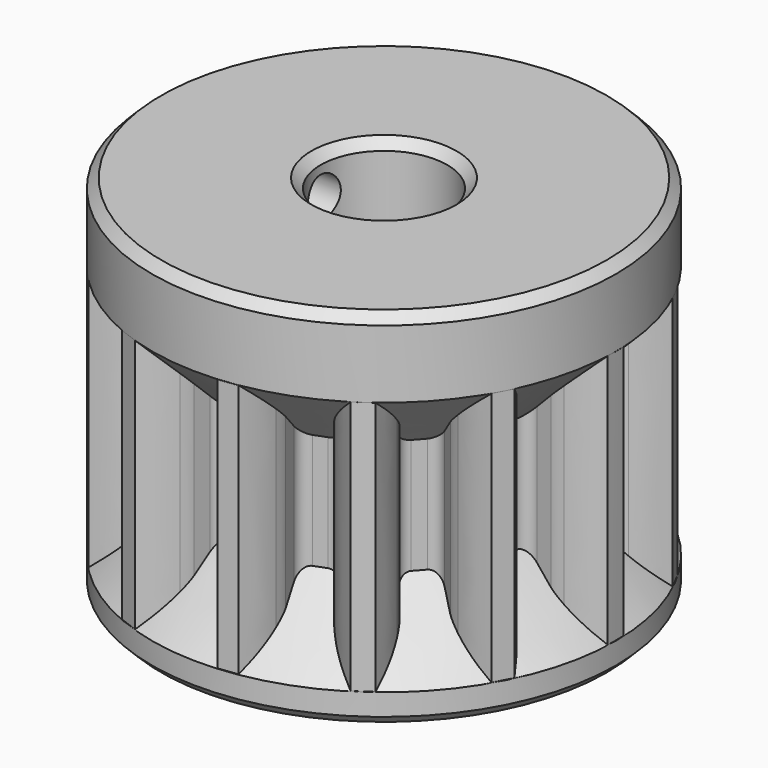
from build123d import *

# Parameters (mm, degrees)
PAD002_DEPTH         = 20
SKETCH008_R          = 4.1
POCKET004_DEPTH      = 5.251
POCKET004_DEPTH_BACK = 18.251
SKETCH009_R          = 1.35
POCKET005_DEPTH      = 15.021
CHAMFER002_SIZE      = 0.6
CHAMFER003_SIZE      = 0.4


with BuildPart() as part:
    # InvoluteGear001 → Pad002 (new body)
    with BuildSketch(Plane.XY):
        with BuildLine():
            Line((11.121727, -1.518946), (12.135878, -1.655838))
            add(Edge.make_bspline(
                [(12.135878, -1.655838), (12.219946, -1.661179), (12.472459, -1.665228), (12.896247, -1.569363)],
                knots=[0, 0, 0, 0, 1, 1, 1, 1], degree=3))
            add(Edge.make_bspline(
                [(12.896247, -1.569363), (13.401185, -1.452446), (14.121598, -1.194594), (14.989263, -0.632949)],
                knots=[0, 0, 0, 0, 1, 1, 1, 1], degree=3))
            ThreePointArc((14.989263, -0.632949), (15.002623, 0), (14.989263, 0.632949))
            add(Edge.make_bspline(
                [(14.989263, 0.632949), (14.121598, 1.194594), (13.401185, 1.452446), (12.896247, 1.569363)],
                knots=[0, 0, 0, 0, 1, 1, 1, 1], degree=3))
            add(Edge.make_bspline(
                [(12.896247, 1.569363), (12.472459, 1.665228), (12.219946, 1.661179), (12.135878, 1.655838)],
                knots=[0, 0, 0, 0, 1, 1, 1, 1], degree=3))
            Line((12.135878, 1.655838), (11.121727, 1.518946))
            ThreePointArc((11.121727, 1.518946), (10.587353, 1.649583), (10.285868, 2.109722))
            ThreePointArc((10.285868, 2.109722), (10.194889, 2.512814), (10.08812, 2.912015))
            ThreePointArc((10.08812, 2.912015), (10.141235, 3.459555), (10.553689, 3.823564))
            Line((10.553689, 3.823564), (11.515293, 4.173652))
            add(Edge.make_bspline(
                [(11.515293, 4.173652), (11.592213, 4.207991), (11.817684, 4.321754), (12.148378, 4.603583)],
                knots=[0, 0, 0, 0, 1, 1, 1, 1], degree=3))
            add(Edge.make_bspline(
                [(12.148378, 4.603583), (12.541145, 4.941764), (13.05921, 5.504873), (13.566479, 6.405409)],
                knots=[0, 0, 0, 0, 1, 1, 1, 1], degree=3))
            ThreePointArc((13.566479, 6.405409), (13.284163, 6.972066), (12.978187, 7.526306))
            add(Edge.make_bspline(
                [(12.978187, 7.526306), (11.948899, 7.620394), (11.191174, 7.513918), (10.68974, 7.382786)],
                knots=[0, 0, 0, 0, 1, 1, 1, 1], degree=3))
            add(Edge.make_bspline(
                [(10.68974, 7.382786), (10.269944, 7.270727), (10.048236, 7.149793), (9.97628, 7.105995)],
                knots=[0, 0, 0, 0, 1, 1, 1, 1], degree=3))
            Line((9.97628, 7.105995), (9.14191, 6.513484))
            ThreePointArc((9.14191, 6.513484), (8.608036, 6.380822), (8.127247, 6.648147))
            ThreePointArc((8.127247, 6.648147), (7.859363, 6.962788), (7.579306, 7.266644))
            ThreePointArc((7.579306, 7.266644), (7.371882, 7.776151), (7.567929, 8.290142))
            Line((7.567929, 8.290142), (8.256692, 9.047009))
            add(Edge.make_bspline(
                [(8.256692, 9.047009), (8.308844, 9.113161), (8.45562, 9.318675), (8.617463, 9.721903)],
                knots=[0, 0, 0, 0, 1, 1, 1, 1], degree=3))
            add(Edge.make_bspline(
                [(8.617463, 9.721903), (8.80808, 10.203875), (9.005114, 10.943241), (9.035779, 11.976365)],
                knots=[0, 0, 0, 0, 1, 1, 1, 1], degree=3))
            ThreePointArc((9.035779, 11.976365), (8.522461, 12.346916), (7.993965, 12.695477))
            add(Edge.make_bspline(
                [(7.993965, 12.695477), (7.03885, 12.300454), (6.417401, 11.854042), (6.034343, 11.504902)],
                knots=[0, 0, 0, 0, 1, 1, 1, 1], degree=3))
            add(Edge.make_bspline(
                [(6.034343, 11.504902), (5.714708, 11.21059), (5.574597, 11.000475), (5.531236, 10.928255)],
                knots=[0, 0, 0, 0, 1, 1, 1, 1], degree=3))
            Line((5.531236, 10.928255), (5.067793, 10.015861))
            ThreePointArc((5.067793, 10.015861), (4.656722, 9.650291), (4.106771, 9.663562))
            ThreePointArc((4.106771, 9.663562), (3.723351, 9.817671), (3.334164, 9.956573))
            ThreePointArc((3.334164, 9.956573), (2.91372, 10.311324), (2.848447, 10.857548))
            Line((2.848447, 10.857548), (3.106584, 11.847805))
            add(Edge.make_bspline(
                [(3.106584, 11.847805), (3.122019, 11.930615), (3.156476, 12.180799), (3.112391, 12.613053)],
                knots=[0, 0, 0, 0, 1, 1, 1, 1], degree=3))
            add(Edge.make_bspline(
                [(3.112391, 12.613053), (3.05719, 13.128402), (2.888055, 13.874643), (2.43509, 14.80368)],
                knots=[0, 0, 0, 0, 1, 1, 1, 1], degree=3))
            ThreePointArc((2.43509, 14.80368), (1.808366, 14.893237), (1.178422, 14.956268))
            add(Edge.make_bspline(
                [(1.178422, 14.956268), (0.516286, 14.162628), (0.173478, 13.478548), (-0.003449, 12.991384)],
                knots=[0, 0, 0, 0, 1, 1, 1, 1], degree=3))
            add(Edge.make_bspline(
                [(-0.003449, 12.991384), (-0.149698, 12.582242), (-0.176115, 12.331081), (-0.180947, 12.246983)],
                knots=[0, 0, 0, 0, 1, 1, 1, 1], degree=3))
            Line((-0.180947, 12.246983), (-0.167295, 11.223725))
            ThreePointArc((-0.167295, 11.223725), (-0.361392, 10.708995), (-0.854516, 10.465171))
            ThreePointArc((-0.854516, 10.465171), (-1.265635, 10.423443), (-1.674794, 10.365571))
            ThreePointArc((-1.674794, 10.365571), (-2.21194, 10.484297), (-2.523579, 10.937621))
            Line((-2.523579, 10.937621), (-2.755206, 11.934411))
            add(Edge.make_bspline(
                [(-2.755206, 11.934411), (-2.780023, 12.01491), (-2.865779, 12.25245), (-3.105693, 12.614704)],
                knots=[0, 0, 0, 0, 1, 1, 1, 1], degree=3))
            add(Edge.make_bspline(
                [(-3.105693, 12.614704), (-3.394065, 13.04537), (-3.890623, 13.627532), (-4.723448, 14.239651)],
                knots=[0, 0, 0, 0, 1, 1, 1, 1], degree=3))
            ThreePointArc((-4.723448, 14.239651), (-5.320003, 14.027696), (-5.907084, 13.790757))
            add(Edge.make_bspline(
                [(-5.907084, 13.790757), (-6.124552, 12.780315), (-6.110186, 12.015281), (-6.040452, 11.501697)],
                knots=[0, 0, 0, 0, 1, 1, 1, 1], degree=3))
            add(Edge.make_bspline(
                [(-6.040452, 11.501697), (-5.97981, 11.071453), (-5.886482, 10.836785), (-5.851677, 10.760075)],
                knots=[0, 0, 0, 0, 1, 1, 1, 1], degree=3))
            Line((-5.851677, 10.760075), (-5.364058, 9.860369))
            ThreePointArc((-5.364058, 9.860369), (-5.296714, 9.314397), (-5.620043, 8.869335))
            ThreePointArc((-5.620043, 8.869335), (-5.96468, 8.641331), (-6.300078, 8.399942))
            ThreePointArc((-6.300078, 8.399942), (-6.830871, 8.255444), (-7.317484, 8.512016))
            Line((-7.317484, 8.512016), (-7.985811, 9.286988))
            add(Edge.make_bspline(
                [(-7.985811, 9.286988), (-8.045195, 9.346733), (-8.231519, 9.517211), (-8.612299, 9.726478)],
                knots=[0, 0, 0, 0, 1, 1, 1, 1], degree=3))
            add(Edge.make_bspline(
                [(-8.612299, 9.726478), (-9.067781, 9.973801), (-9.778006, 10.258518), (-10.799901, 10.413489)],
                knots=[0, 0, 0, 0, 1, 1, 1, 1], degree=3))
            ThreePointArc((-10.799901, 10.413489), (-11.229624, 9.948579), (-11.639347, 9.46595))
            add(Edge.make_bspline(
                [(-11.639347, 9.46595), (-11.36233, 8.470185), (-10.994081, 7.799458), (-10.693659, 7.377109)],
                knots=[0, 0, 0, 0, 1, 1, 1, 1], degree=3))
            add(Edge.make_bspline(
                [(-10.693659, 7.377109), (-10.44002, 7.024329), (-10.248326, 6.859913), (-10.181859, 6.808163)],
                knots=[0, 0, 0, 0, 1, 1, 1, 1], degree=3))
            Line((-10.181859, 6.808163), (-9.331979, 6.238122))
            ThreePointArc((-9.331979, 6.238122), (-9.018624, 5.785983), (-9.098087, 5.241642))
            ThreePointArc((-9.098087, 5.241642), (-9.297288, 4.879593), (-9.482089, 4.509987))
            ThreePointArc((-9.482089, 4.509987), (-9.884933, 4.135369), (-10.435042, 4.136412))
            Line((-10.435042, 4.136412), (-11.386963, 4.512028))
            add(Edge.make_bspline(
                [(-11.386963, 4.512028), (-11.46731, 4.537332), (-11.711517, 4.601694), (-12.145932, 4.610034)],
                knots=[0, 0, 0, 0, 1, 1, 1, 1], degree=3))
            add(Edge.make_bspline(
                [(-12.145932, 4.610034), (-12.664177, 4.617354), (-13.425365, 4.539401), (-14.402227, 4.201722)],
                knots=[0, 0, 0, 0, 1, 1, 1, 1], degree=3))
            ThreePointArc((-14.402227, 4.201722), (-14.566674, 3.590363), (-14.705177, 2.972608))
            add(Edge.make_bspline(
                [(-14.705177, 2.972608), (-13.997135, 2.219638), (-13.359364, 1.796873), (-12.897078, 1.562514)],
                knots=[0, 0, 0, 0, 1, 1, 1, 1], degree=3))
            add(Edge.make_bspline(
                [(-12.897078, 1.562514), (-12.508547, 1.368015), (-12.262402, 1.311516), (-12.179499, 1.296583)],
                knots=[0, 0, 0, 0, 1, 1, 1, 1], degree=3))
            Line((-12.179499, 1.296583), (-11.162057, 1.186795))
            ThreePointArc((-11.162057, 1.186795), (-10.674475, 0.93207), (-10.491869, 0.413152))
            ThreePointArc((-10.491869, 0.413152), (-10.5, 0), (-10.491869, -0.413152))
            ThreePointArc((-10.491869, -0.413152), (-10.674475, -0.93207), (-11.162057, -1.186795))
            Line((-11.162057, -1.186795), (-12.179499, -1.296583))
            add(Edge.make_bspline(
                [(-12.179499, -1.296583), (-12.262402, -1.311516), (-12.508547, -1.368015), (-12.897078, -1.562514)],
                knots=[0, 0, 0, 0, 1, 1, 1, 1], degree=3))
            add(Edge.make_bspline(
                [(-12.897078, -1.562514), (-13.359364, -1.796873), (-13.997135, -2.219638), (-14.705177, -2.972608)],
                knots=[0, 0, 0, 0, 1, 1, 1, 1], degree=3))
            ThreePointArc((-14.705177, -2.972608), (-14.566674, -3.590363), (-14.402227, -4.201722))
            add(Edge.make_bspline(
                [(-14.402227, -4.201722), (-13.425365, -4.539401), (-12.664177, -4.617354), (-12.145932, -4.610034)],
                knots=[0, 0, 0, 0, 1, 1, 1, 1], degree=3))
            add(Edge.make_bspline(
                [(-12.145932, -4.610034), (-11.711517, -4.601694), (-11.46731, -4.537332), (-11.386963, -4.512028)],
                knots=[0, 0, 0, 0, 1, 1, 1, 1], degree=3))
            Line((-11.386963, -4.512028), (-10.435042, -4.136412))
            ThreePointArc((-10.435042, -4.136412), (-9.884933, -4.135369), (-9.482089, -4.509987))
            ThreePointArc((-9.482089, -4.509987), (-9.297288, -4.879593), (-9.098087, -5.241642))
            ThreePointArc((-9.098087, -5.241642), (-9.018624, -5.785983), (-9.331979, -6.238122))
            Line((-9.331979, -6.238122), (-10.181859, -6.808163))
            add(Edge.make_bspline(
                [(-10.181859, -6.808163), (-10.248326, -6.859913), (-10.44002, -7.024329), (-10.693659, -7.377109)],
                knots=[0, 0, 0, 0, 1, 1, 1, 1], degree=3))
            add(Edge.make_bspline(
                [(-10.693659, -7.377109), (-10.994081, -7.799458), (-11.36233, -8.470185), (-11.639347, -9.46595)],
                knots=[0, 0, 0, 0, 1, 1, 1, 1], degree=3))
            ThreePointArc((-11.639347, -9.46595), (-11.229624, -9.948579), (-10.799901, -10.413489))
            add(Edge.make_bspline(
                [(-10.799901, -10.413489), (-9.778006, -10.258518), (-9.067781, -9.973801), (-8.612299, -9.726478)],
                knots=[0, 0, 0, 0, 1, 1, 1, 1], degree=3))
            add(Edge.make_bspline(
                [(-8.612299, -9.726478), (-8.231519, -9.517211), (-8.045195, -9.346733), (-7.985811, -9.286988)],
                knots=[0, 0, 0, 0, 1, 1, 1, 1], degree=3))
            Line((-7.985811, -9.286988), (-7.317484, -8.512016))
            ThreePointArc((-7.317484, -8.512016), (-6.830871, -8.255444), (-6.300078, -8.399942))
            ThreePointArc((-6.300078, -8.399942), (-5.96468, -8.641331), (-5.620043, -8.869335))
            ThreePointArc((-5.620043, -8.869335), (-5.296714, -9.314397), (-5.364058, -9.860369))
            Line((-5.364058, -9.860369), (-5.851677, -10.760075))
            add(Edge.make_bspline(
                [(-5.851677, -10.760075), (-5.886482, -10.836785), (-5.97981, -11.071453), (-6.040452, -11.501697)],
                knots=[0, 0, 0, 0, 1, 1, 1, 1], degree=3))
            add(Edge.make_bspline(
                [(-6.040452, -11.501697), (-6.110186, -12.015281), (-6.124552, -12.780315), (-5.907084, -13.790757)],
                knots=[0, 0, 0, 0, 1, 1, 1, 1], degree=3))
            ThreePointArc((-5.907084, -13.790757), (-5.320003, -14.027696), (-4.723448, -14.239651))
            add(Edge.make_bspline(
                [(-4.723448, -14.239651), (-3.890623, -13.627532), (-3.394065, -13.04537), (-3.105693, -12.614704)],
                knots=[0, 0, 0, 0, 1, 1, 1, 1], degree=3))
            add(Edge.make_bspline(
                [(-3.105693, -12.614704), (-2.865779, -12.25245), (-2.780023, -12.01491), (-2.755206, -11.934411)],
                knots=[0, 0, 0, 0, 1, 1, 1, 1], degree=3))
            Line((-2.755206, -11.934411), (-2.523579, -10.937621))
            ThreePointArc((-2.523579, -10.937621), (-2.21194, -10.484297), (-1.674794, -10.365571))
            ThreePointArc((-1.674794, -10.365571), (-1.265635, -10.423443), (-0.854516, -10.465171))
            ThreePointArc((-0.854516, -10.465171), (-0.361392, -10.708995), (-0.167295, -11.223725))
            Line((-0.167295, -11.223725), (-0.180947, -12.246983))
            add(Edge.make_bspline(
                [(-0.180947, -12.246983), (-0.176115, -12.331081), (-0.149698, -12.582242), (-0.003449, -12.991384)],
                knots=[0, 0, 0, 0, 1, 1, 1, 1], degree=3))
            add(Edge.make_bspline(
                [(-0.003449, -12.991384), (0.173478, -13.478548), (0.516286, -14.162628), (1.178422, -14.956268)],
                knots=[0, 0, 0, 0, 1, 1, 1, 1], degree=3))
            ThreePointArc((1.178422, -14.956268), (1.808366, -14.893237), (2.43509, -14.80368))
            add(Edge.make_bspline(
                [(2.43509, -14.80368), (2.888055, -13.874643), (3.05719, -13.128402), (3.112391, -12.613053)],
                knots=[0, 0, 0, 0, 1, 1, 1, 1], degree=3))
            add(Edge.make_bspline(
                [(3.112391, -12.613053), (3.156476, -12.180799), (3.122019, -11.930615), (3.106584, -11.847805)],
                knots=[0, 0, 0, 0, 1, 1, 1, 1], degree=3))
            Line((3.106584, -11.847805), (2.848447, -10.857548))
            ThreePointArc((2.848447, -10.857548), (2.91372, -10.311324), (3.334164, -9.956573))
            ThreePointArc((3.334164, -9.956573), (3.723351, -9.817671), (4.106771, -9.663562))
            ThreePointArc((4.106771, -9.663562), (4.656722, -9.650291), (5.067793, -10.015861))
            Line((5.067793, -10.015861), (5.531236, -10.928255))
            add(Edge.make_bspline(
                [(5.531236, -10.928255), (5.574597, -11.000475), (5.714708, -11.21059), (6.034343, -11.504902)],
                knots=[0, 0, 0, 0, 1, 1, 1, 1], degree=3))
            add(Edge.make_bspline(
                [(6.034343, -11.504902), (6.417401, -11.854042), (7.03885, -12.300454), (7.993965, -12.695477)],
                knots=[0, 0, 0, 0, 1, 1, 1, 1], degree=3))
            ThreePointArc((7.993965, -12.695477), (8.522461, -12.346916), (9.035779, -11.976365))
            add(Edge.make_bspline(
                [(9.035779, -11.976365), (9.005114, -10.943241), (8.80808, -10.203875), (8.617463, -9.721903)],
                knots=[0, 0, 0, 0, 1, 1, 1, 1], degree=3))
            add(Edge.make_bspline(
                [(8.617463, -9.721903), (8.45562, -9.318675), (8.308844, -9.113161), (8.256692, -9.047009)],
                knots=[0, 0, 0, 0, 1, 1, 1, 1], degree=3))
            Line((8.256692, -9.047009), (7.567929, -8.290142))
            ThreePointArc((7.567929, -8.290142), (7.371882, -7.776151), (7.579306, -7.266644))
            ThreePointArc((7.579306, -7.266644), (7.859363, -6.962788), (8.127247, -6.648147))
            ThreePointArc((8.127247, -6.648147), (8.608036, -6.380822), (9.14191, -6.513484))
            Line((9.14191, -6.513484), (9.97628, -7.105995))
            add(Edge.make_bspline(
                [(9.97628, -7.105995), (10.048236, -7.149793), (10.269944, -7.270727), (10.68974, -7.382786)],
                knots=[0, 0, 0, 0, 1, 1, 1, 1], degree=3))
            add(Edge.make_bspline(
                [(10.68974, -7.382786), (11.191174, -7.513918), (11.948899, -7.620394), (12.978187, -7.526306)],
                knots=[0, 0, 0, 0, 1, 1, 1, 1], degree=3))
            ThreePointArc((12.978187, -7.526306), (13.284163, -6.972066), (13.566479, -6.405409))
            add(Edge.make_bspline(
                [(13.566479, -6.405409), (13.05921, -5.504873), (12.541145, -4.941764), (12.148378, -4.603583)],
                knots=[0, 0, 0, 0, 1, 1, 1, 1], degree=3))
            add(Edge.make_bspline(
                [(12.148378, -4.603583), (11.817684, -4.321754), (11.592213, -4.207991), (11.515293, -4.173652)],
                knots=[0, 0, 0, 0, 1, 1, 1, 1], degree=3))
            Line((11.515293, -4.173652), (10.553689, -3.823564))
            ThreePointArc((10.553689, -3.823564), (10.141235, -3.459555), (10.08812, -2.912015))
            ThreePointArc((10.08812, -2.912015), (10.194889, -2.512814), (10.285868, -2.109722))
            ThreePointArc((10.285868, -2.109722), (10.587353, -1.649583), (11.121727, -1.518946))
        make_face()
    extrude(amount=PAD002_DEPTH)

    # Sketch007 → Revolution001 (revolve)
    with BuildSketch(Plane.XZ):
        Polygon((15.02, 18.25), (10.02, 13.25), (10.02, 6.75), (15.02, 1.75), (15.02, -0.25), (0, -0.25), (0, 23.25), (15.02, 23.25), align=None)
    revolve(axis=Axis((0, 0, 0), (0, 0, 1)))

    # Sketch008 → Pocket004 (cut, two sides)
    with BuildSketch(Plane.XY.offset(5)) as pocket004_sk:
        Circle(SKETCH008_R)
    extrude(amount=-POCKET004_DEPTH, mode=Mode.SUBTRACT)
    extrude(pocket004_sk.sketch, amount=POCKET004_DEPTH_BACK, mode=Mode.SUBTRACT)

    # Sketch009 → Pocket005 (cut, through all)
    with BuildSketch(Plane.YZ):
        with Locations((0, 20.75)):
            Circle(SKETCH009_R)
    extrude(amount=-POCKET005_DEPTH, mode=Mode.SUBTRACT)

    # Chamfer002
    chamfer002_edges = [part.edges().sort_by_distance(p)[0] for p in [
        (-15.02, 0, 23.25),
        (-15.02, 0, -0.25),
        (-4.1, 0, 23.25),
        (-4.1, 0, -0.25),
    ]]
    chamfer(chamfer002_edges, length=CHAMFER002_SIZE)

    # Chamfer003
    chamfer003_edges = [part.edges().sort_by_distance(p)[0] for p in [
        (-14.959208, -1.35, 20.75),
    ]]
    chamfer(chamfer003_edges, length=CHAMFER003_SIZE)


solid = part.part
